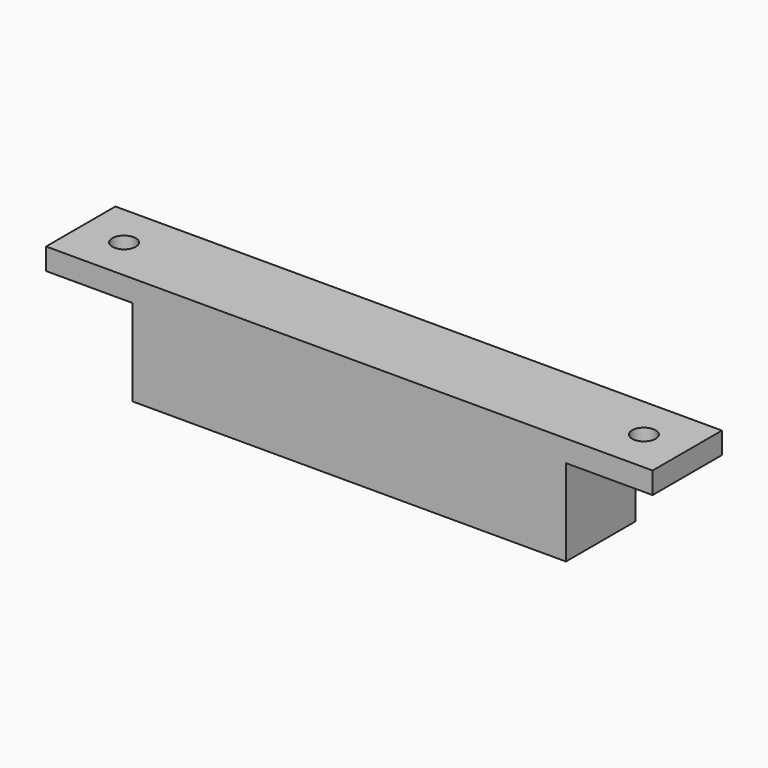
from build123d import *

# Parameters (mm, degrees)
SKETCH026_W     = 140
SKETCH026_H     = 20
PAD024_DEPTH    = 5
SKETCH027_W     = 90
SKETCH027_H     = 10
PAD025_DEPTH    = 20
SKETCH028_R     = 2.7
POCKET002_DEPTH = 5.001


with BuildPart() as part:
    # Sketch026 → Pad024 (new body)
    with BuildSketch(Plane.XY):
        with Locations((70, 10)):
            Rectangle(SKETCH026_W, SKETCH026_H)
    extrude(amount=PAD024_DEPTH)

    # Sketch027 (on Face5 of Pad024) → Pad025 (join)
    with BuildSketch(Plane(origin=(0, 0, 0), x_dir=(1, 0, 0), z_dir=(0, 0, -1))):
        Polygon((20, 0), (25, 0), (115, 0), (120, 0), (120, -20), (115, -20), (25, -20), (20, -20), align=None)
        with Locations((70, -10)):
            Rectangle(SKETCH027_W, SKETCH027_H, mode=Mode.SUBTRACT)
    extrude(amount=PAD025_DEPTH)

    # Sketch028 (on Face4 of Pad025) → Pocket002 (cut, through all)
    with BuildSketch(Plane(origin=(0, 0, 0), x_dir=(1, 0, 0), z_dir=(0, 0, -1))):
        with Locations((10, -10)):
            Circle(SKETCH028_R)
        with Locations((130, -10)):
            Circle(SKETCH028_R)
    extrude(amount=-POCKET002_DEPTH, mode=Mode.SUBTRACT)


solid = part.part
